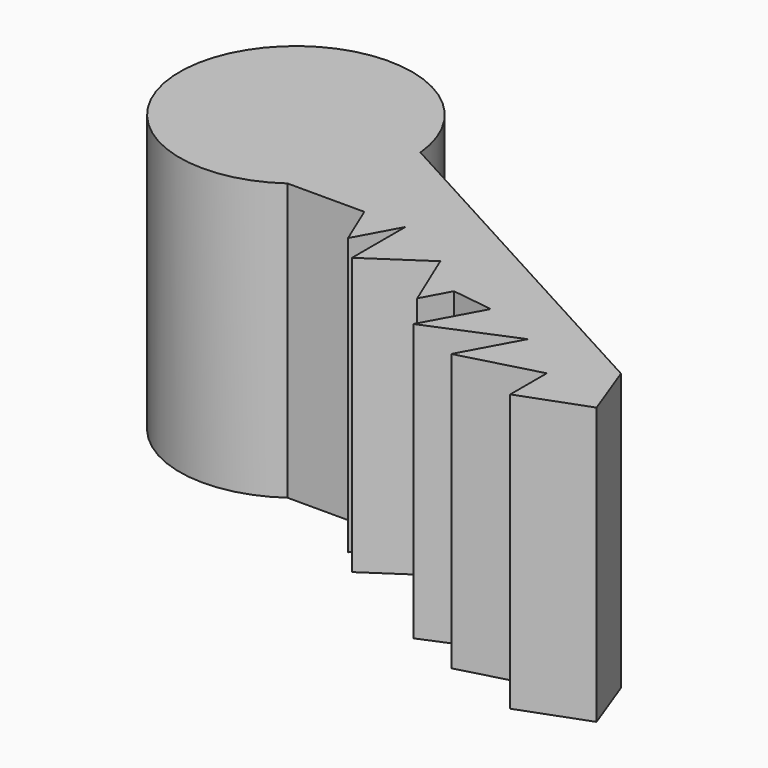
from build123d import *

# Parameters (mm, degrees)
F1_DEPTH = 25.4


with BuildPart() as f1:
    # F0 (on Top) → F1 (new body)
    with BuildSketch(Plane.XY):
        with BuildLine():
            ThreePointArc((-51.41338, 45.848273), (-71.741817, 49.273971), (-55.852391, 36.139783))
            Line((-55.852391, 36.139783), (-53.533264, 36.139783))
            Line((-53.533264, 36.139783), (-48.798145, 36.139783))
            Line((-48.798145, 36.139783), (-47.165026, 32.226722))
            Line((-47.165026, 32.226722), (-45.029785, 36.139783))
            Line((-45.029785, 36.139783), (-45.029785, 30.01758))
            Line((-45.029785, 30.01758), (-39.756174, 33.553157))
            Line((-39.756174, 33.553157), (-37.448085, 28.022826))
            Line((-37.448085, 28.022826), (-36.078368, 30.532981))
            Line((-36.078368, 30.532981), (-32.292239, 30.01758))
            Line((-32.292239, 30.01758), (-35.173479, 24.737392))
            Line((-35.173479, 24.737392), (-27.301366, 28.022826))
            Line((-27.301366, 28.022826), (-30.148696, 22.804784))
            Line((-30.148696, 22.804784), (-22.925541, 24.737392))
            Line((-22.925541, 24.737392), (-22.925541, 20.541135))
            Line((-22.925541, 20.541135), (-16.813695, 22.804784))
            Line((-16.813695, 22.804784), (-18.746305, 28.022826))
            Line((-18.746305, 28.022826), (-51.41338, 45.848273))
        make_face()
    extrude(amount=F1_DEPTH)


solid = f1.part
